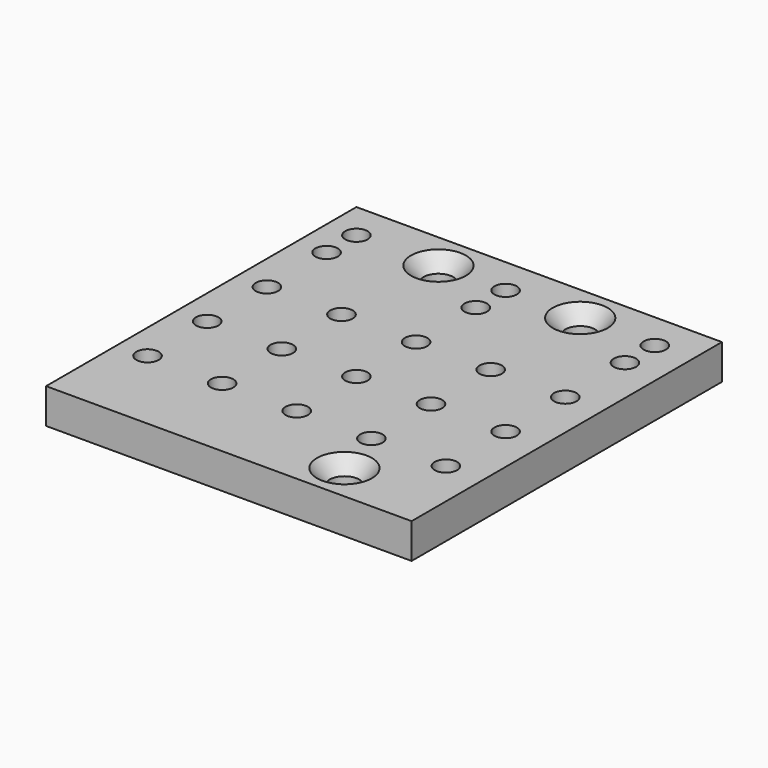
from build123d import *

# Parameters (mm, degrees)
F0_W     = 49
F0_H     = 52
F0_R     = 1.5
F0_R_2   = 3.5
F0_R_3   = 2
F1_DEPTH = 4.7
F2_SIZE2 = 1.678199
F2_SIZE  = 2


with BuildPart() as f1:
    # F0 (on Top) → F1 (new body)
    with BuildSketch(Plane.XY):
        with Locations((-19.049798, 0)):
            Rectangle(F0_W, F0_H)
        with Locations((-39.549798, -14)):
            Circle(F0_R, mode=Mode.SUBTRACT)
        with Locations((-29.549798, -14)):
            Circle(F0_R, mode=Mode.SUBTRACT)
        with Locations((-19.549798, -14)):
            Circle(F0_R, mode=Mode.SUBTRACT)
        with Locations((-39.549798, -4)):
            Circle(F0_R, mode=Mode.SUBTRACT)
        with Locations((-29.549798, -4)):
            Circle(F0_R, mode=Mode.SUBTRACT)
        with Locations((-19.549798, -4)):
            Circle(F0_R, mode=Mode.SUBTRACT)
        with Locations((-7.549798, -21)):
            Circle(F0_R_2, mode=Mode.SUBTRACT)
        with Locations((-9.549798, -14)):
            Circle(F0_R, mode=Mode.SUBTRACT)
        with Locations((0.450202, -14)):
            Circle(F0_R, mode=Mode.SUBTRACT)
        with Locations((-9.549798, -4)):
            Circle(F0_R, mode=Mode.SUBTRACT)
        with Locations((0.450202, -4)):
            Circle(F0_R, mode=Mode.SUBTRACT)
        with Locations((-39.549798, 6)):
            Circle(F0_R, mode=Mode.SUBTRACT)
        with Locations((-29.549798, 6)):
            Circle(F0_R, mode=Mode.SUBTRACT)
        with Locations((-19.549798, 6)):
            Circle(F0_R, mode=Mode.SUBTRACT)
        with Locations((-39.549798, 16)):
            Circle(F0_R, mode=Mode.SUBTRACT)
        with Locations((-39.549798, 21)):
            Circle(F0_R, mode=Mode.SUBTRACT)
        with Locations((-19.549798, 16)):
            Circle(F0_R, mode=Mode.SUBTRACT)
        with Locations((-28.549798, 21)):
            Circle(F0_R_2, mode=Mode.SUBTRACT)
        with Locations((-19.549798, 21)):
            Circle(F0_R, mode=Mode.SUBTRACT)
        with Locations((-9.549798, 6)):
            Circle(F0_R, mode=Mode.SUBTRACT)
        with Locations((0.450202, 6)):
            Circle(F0_R, mode=Mode.SUBTRACT)
        with Locations((-9.549798, 21)):
            Circle(F0_R_2, mode=Mode.SUBTRACT)
        with Locations((0.450202, 16)):
            Circle(F0_R, mode=Mode.SUBTRACT)
        with Locations((0.450202, 21)):
            Circle(F0_R, mode=Mode.SUBTRACT)
        with Locations((-28.549798, 21)):
            Circle(F0_R_2)
        with Locations((-28.549798, 21)):
            Circle(F0_R_3, mode=Mode.SUBTRACT)
        with Locations((-9.549798, 21)):
            Circle(F0_R_2)
        with Locations((-9.549798, 21)):
            Circle(F0_R_3, mode=Mode.SUBTRACT)
        with Locations((-7.549798, -21)):
            Circle(F0_R_2)
        with Locations((-7.549798, -21)):
            Circle(F0_R_3, mode=Mode.SUBTRACT)
    extrude(amount=F1_DEPTH)

    # F2
    f2_edges = [f1.edges().sort_by_distance(p)[0] for p in [
        (-30.549798, 21, 4.7),
        (-11.549798, 21, 4.7),
        (-9.549798, -21, 4.7),
    ]]
    chamfer(f2_edges, length=F2_SIZE, length2=F2_SIZE2)


solid = f1.part
